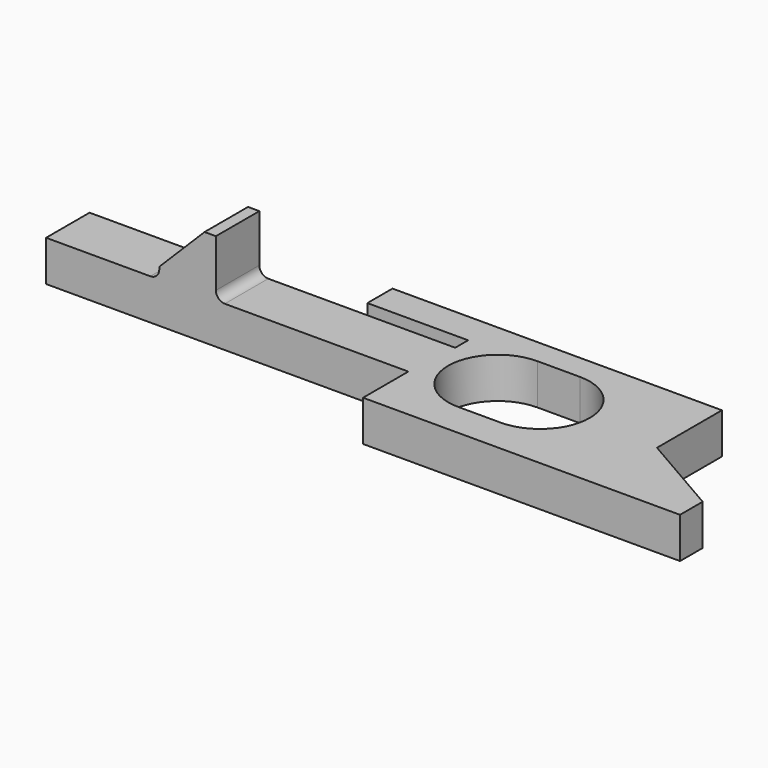
from build123d import *

# Parameters (mm, degrees)
F0_W      = 76.2
F0_H      = 17.78
F1_DEPTH  = 4.572
F2_W      = 29.718
F2_H      = 5.334
F3_DEPTH  = 3.556
F4_W      = 18.669
F4_H      = 1.810194
F5_DEPTH  = 4.573
F6_W      = 40.64
F6_H      = 6.35
F7_DEPTH  = 4.573
F10_DEPTH = 25.4
F11_DEPTH = 25.4
F12_W     = 6.35
F12_H     = 6.096
F13_DEPTH = 6.35
F14_SIZE  = 5.08
F15_R     = 1


with BuildPart() as f1:
    # F0 (on Top) → F1 (new body)
    with BuildSketch(Plane.XY):
        Rectangle(F0_W, F0_H)
    extrude(amount=F1_DEPTH)

    # F2 (on face) → F3 (cut)
    with BuildSketch(Plane.XY.offset(4.572)):
        with Locations((-23.241, 6.223)):
            Rectangle(F2_W, F2_H)
    extrude(amount=-F3_DEPTH, mode=Mode.SUBTRACT)

    # F4 (on face) → F5 (cut, through all)
    with BuildSketch(Plane.XY.offset(4.572)):
        with Locations((-6.4135, 4.461097)):
            Rectangle(F4_W, F4_H)
    extrude(amount=-F5_DEPTH, mode=Mode.SUBTRACT)

    # F6 (on face) → F7 (cut, through all)
    with BuildSketch(Plane.XY.offset(4.572)):
        with Locations((-17.78, -5.715)):
            Rectangle(F6_W, F6_H)
    extrude(amount=-F7_DEPTH, mode=Mode.SUBTRACT)

    # F9 (on face) → F10 (cut)
    with BuildSketch(Plane.XY.offset(4.572)):
        Polygon((38.1, -5.715), (38.1, 8.89), (28.575, 8.89), (28.575, -0.215739), align=None)
    extrude(amount=-F10_DEPTH, mode=Mode.SUBTRACT)

    # F8 (on face) → F11 (cut)
    with BuildSketch(Plane.XY.offset(4.572)):
        with BuildLine():
            Line((14.89075, 6.06425), (10.12825, 6.06425))
            ThreePointArc((10.12825, 6.06425), (4.572, 0.508), (10.12825, -5.04825))
            Line((10.12825, -5.04825), (14.89075, -5.04825))
            ThreePointArc((14.89075, -5.04825), (20.447, 0.508), (14.89075, 6.06425))
        make_face()
    extrude(amount=-F11_DEPTH, mode=Mode.SUBTRACT)

    # F12 (on face) → F13 (join)
    with BuildSketch(Plane.XY.offset(4.572)):
        with Locations((-22.225, 0.508)):
            Rectangle(F12_W, F12_H)
    extrude(amount=F13_DEPTH)

    # F14
    f14_edges = [f1.edges().sort_by_distance(p)[0] for p in [
        (-25.4, 0.508, 10.922),
    ]]
    chamfer(f14_edges, length=F14_SIZE)

    # F15
    f15_edges = [f1.edges().sort_by_distance(p)[0] for p in [
        (-19.05, 0.508, 4.572),
        (-25.4, 0.508, 4.572),
    ]]
    fillet(f15_edges, radius=F15_R)


solid = f1.part
